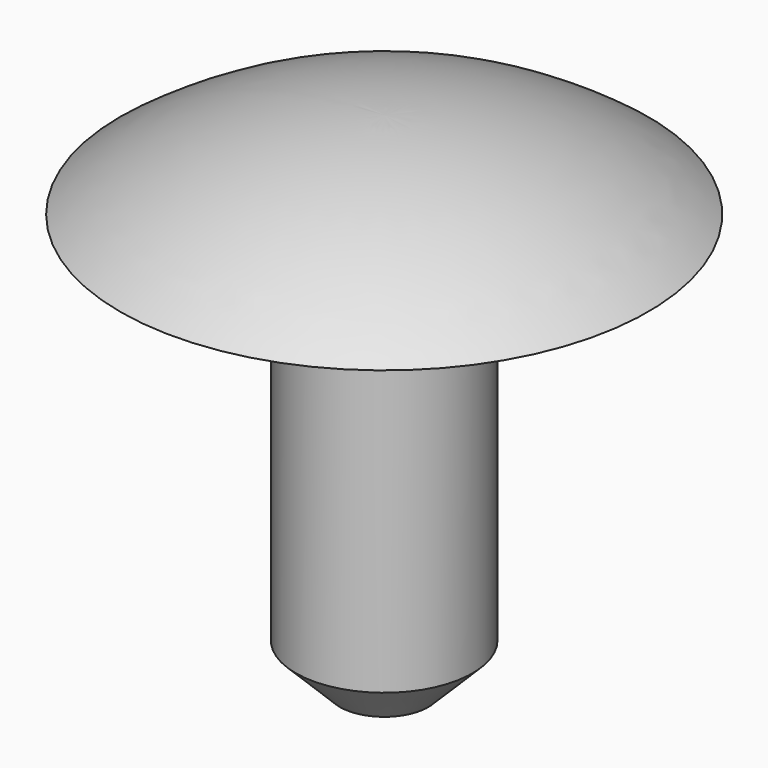
from build123d import *

# Parameters (mm, degrees)
F2_SIZE = 0.5


with BuildPart() as f1:
    # F0 (on Front) → F1 (revolve)
    with BuildSketch(Plane.XZ):
        with BuildLine():
            Line((-1, 0), (0, 0))
            Line((0, 0), (0, 5.726172))
            ThreePointArc((0, 5.726172), (-1.571006, 5.472954), (-2.98289, 4.738948))
            Line((-2.98289, 4.738948), (-1, 5))
            Line((-1, 5), (-1, 0))
        make_face()
    revolve(axis=Axis((0, 0, 2.863086), (0, 0, -1)))

    # F2
    f2_edges = [f1.edges().sort_by_distance(p)[0] for p in [
        (1, 0, 0),
    ]]
    chamfer(f2_edges, length=F2_SIZE)


solid = f1.part
